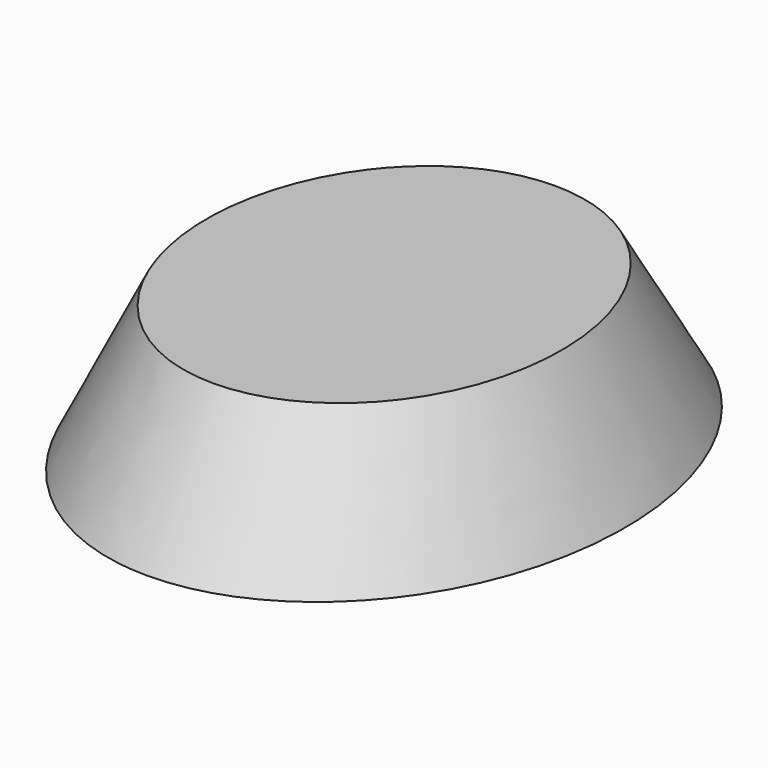
from build123d import *


with BuildPart() as f3:
    # F0 (on Top) → F3 section 0
    with BuildSketch(Plane.XY):
        with BuildLine():
            add(Edge.make_bspline(
                [(-2.2, -55.691215), (74.58197, -55.691215), (36.190985, 26.045607), (-2.2, 107.782429), (-40.590985, 26.045607), (-78.981969, -55.691215), (-2.2, -55.691215)],
                knots=[0, 0, 0, 2.094395, 2.094395, 4.18879, 4.18879, 6.283185, 6.283185, 6.283185], degree=2, weights=[1, 0.5, 1, 0.5, 1, 0.5, 1]))
        make_face()
    # F2 (on offset) → F3 section 1
    with BuildSketch(Plane.XY.offset(25)):
        with BuildLine():
            add(Edge.make_bspline(
                [(-2.159012, -40.544201), (54.439363, -40.544201), (26.140175, 18.462179), (-2.159012, 77.468559), (-30.4582, 18.462179), (-58.757388, -40.544201), (-2.159012, -40.544201)],
                knots=[0, 0, 0, 2.094395, 2.094395, 4.18879, 4.18879, 6.283185, 6.283185, 6.283185], degree=2, weights=[1, 0.5, 1, 0.5, 1, 0.5, 1]))
        make_face()
    loft()


solid = f3.part
